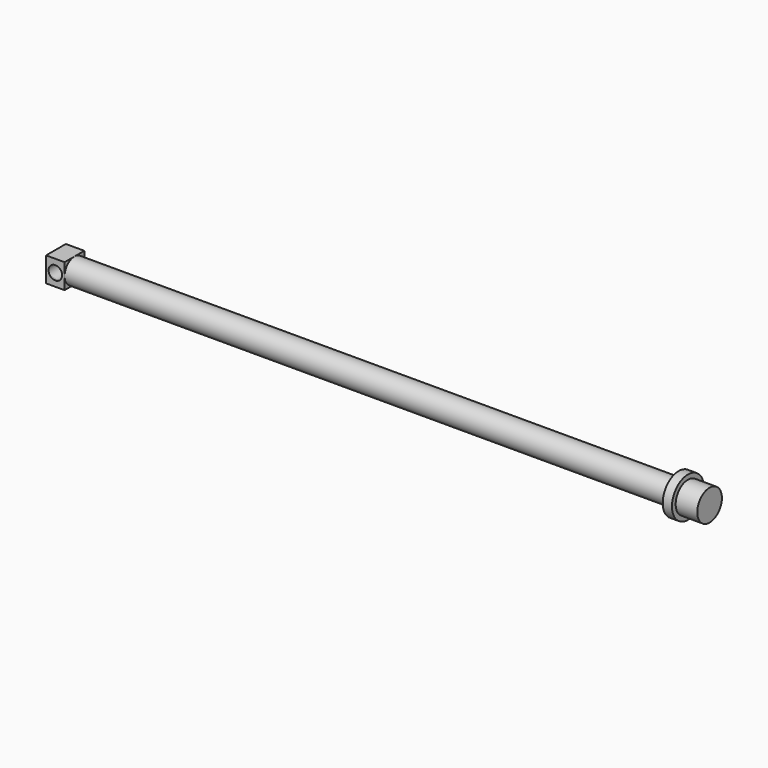
from build123d import *

# Parameters (mm, degrees)
F0_R          = 20
F1_DEPTH      = 505
F2_R          = 25
F2_R_2        = 20
F1_FACE_R     = 20
F3_DEPTH      = 50
F2_R_3        = 32.5
F4_DEPTH      = 15
F5_R          = 11
F6_DEPTH      = 32.501
F6_DEPTH_BACK = 25
F8_DEPTH      = 30
F10_DEPTH     = 52.501


with BuildPart() as f1:
    # F0 (on Right) → F1 (new body, symmetric)
    with BuildSketch(Plane.YZ):
        Circle(F0_R)
    extrude(amount=F1_DEPTH, both=True)

    # F2 (on face) + F1_face (on face) → F3 (join)
    with BuildSketch(Plane.YZ.offset(505)):
        Circle(F2_R)
        Circle(F2_R_2, mode=Mode.SUBTRACT)
    with BuildSketch(Plane.YZ.offset(505)):
        Circle(F1_FACE_R)
    extrude(amount=F3_DEPTH)

    # F2 (on face) → F4 (join)
    with BuildSketch(Plane.YZ.offset(505)):
        Circle(F2_R_3)
        Circle(F2_R, mode=Mode.SUBTRACT)
    extrude(amount=F4_DEPTH)

    # F5 (on Front) → F6 (cut, two sides)
    with BuildSketch(Plane.XZ) as f6_sk:
        with Locations((-490, 0)):
            Circle(F5_R)
    extrude(amount=-F6_DEPTH, mode=Mode.SUBTRACT)
    extrude(f6_sk.sketch, amount=F6_DEPTH_BACK, mode=Mode.SUBTRACT)

    # F7 (on face) → F8 (join)
    with BuildSketch(Plane(origin=(-505, 0, 0), x_dir=(0, -1, 0), z_dir=(-1, 0, 0))):
        with BuildLine():
            ThreePointArc((-20, 0), (-14.1421356364, 14.142135611), (-3.59e-08, 20))
            Line((-3.59e-08, 20), (-20, 20))
            Line((-20, 20), (-20, 0))
        make_face()
        with BuildLine():
            ThreePointArc((0, -20), (-14.1421356237, -14.1421356237), (-20, 0))
            Line((-20, 0), (-20, -20))
            Line((-20, -20), (0, -20))
        make_face()
        with BuildLine():
            Line((20, -20), (20, 0))
            ThreePointArc((20, 0), (14.1421356237, -14.1421356237), (0, -20))
            Line((0, -20), (20, -20))
        make_face()
        with BuildLine():
            Line((20, 0), (20, 20))
            Line((20, 20), (-3.59e-08, 20))
            ThreePointArc((-3.59e-08, 20), (14.142135611, 14.1421356364), (20, 0))
        make_face()
        with BuildLine():
            Line((20, 0), (20, 20))
            Line((20, 20), (-3.59e-08, 20))
            ThreePointArc((-3.59e-08, 20), (14.142135611, 14.1421356364), (20, 0))
        make_face()
    extrude(amount=-F8_DEPTH)

    # F9 (on face) → F10 (cut, through all)
    with BuildSketch(Plane.XZ.offset(20)):
        with BuildLine():
            Line((-501, 0), (-479, 0))
            ThreePointArc((-479, 0), (-490, 11), (-501, 0))
        make_face()
        with BuildLine():
            ThreePointArc((-501, 0), (-490, -11), (-479, 0))
            Line((-479, 0), (-501, 0))
        make_face()
    extrude(amount=-F10_DEPTH, mode=Mode.SUBTRACT)


solid = f1.part
